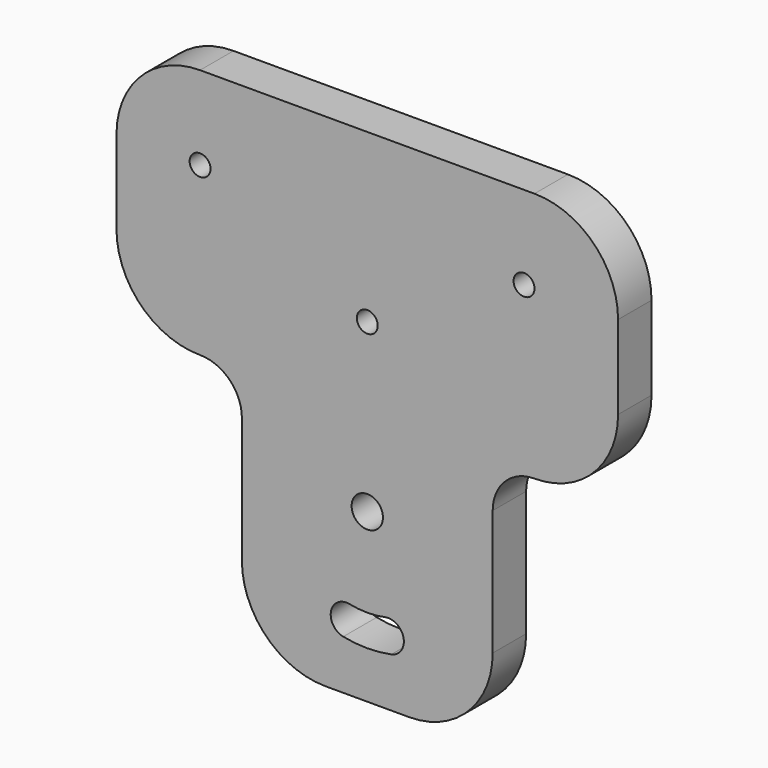
from build123d import *

# Parameters (mm, degrees)
F0_R     = 4.7625
F0_R_2   = 3.175
F1_DEPTH = 12.7


with BuildPart() as f1:
    # F0 (on Front) → F1 (new body)
    with BuildSketch(Plane.XZ):
        with BuildLine():
            Line((50.8, 0), (-50.8, 0))
            ThreePointArc((-50.8, 0), (-68.760512, -7.439488), (-76.2, -25.4))
            Line((-76.2, -25.4), (-76.2, -50.8))
            ThreePointArc((-76.2, -50.8), (-68.760512, -68.760512), (-50.8, -76.2))
            ThreePointArc((-50.8, -76.2), (-41.819744, -79.919744), (-38.1, -88.9))
            Line((-38.1, -88.9), (-38.1, -127))
            ThreePointArc((-38.1, -127), (-30.660512, -144.960512), (-12.7, -152.4))
            Line((-12.7, -152.4), (12.7, -152.4))
            ThreePointArc((12.7, -152.4), (30.660512, -144.960512), (38.1, -127))
            Line((38.1, -127), (38.1, -88.9))
            ThreePointArc((38.1, -88.9), (41.819744, -79.919744), (50.8, -76.2))
            ThreePointArc((50.8, -76.2), (68.760512, -68.760512), (76.2, -50.8))
            Line((76.2, -50.8), (76.2, -25.4))
            ThreePointArc((76.2, -25.4), (68.760512, -7.439488), (50.8, 0))
        make_face()
        with BuildLine():
            ThreePointArc((-7.3025, -137.374798), (-11.016278, -131.75602), (-5.3975, -128.042242))
            ThreePointArc((-5.3975, -128.042242), (0, -128.5875), (5.3975, -128.042242))
            ThreePointArc((5.3975, -128.042242), (11.016278, -131.75602), (7.3025, -137.374798))
            ThreePointArc((7.3025, -137.374798), (0, -138.1125), (-7.3025, -137.374798))
        make_face(mode=Mode.SUBTRACT)
        with Locations((0, -101.6)):
            Circle(F0_R, mode=Mode.SUBTRACT)
        with Locations((-50.8, -25.4)):
            Circle(F0_R_2, mode=Mode.SUBTRACT)
        with Locations((0, -50.8)):
            Circle(F0_R_2, mode=Mode.SUBTRACT)
        with Locations((47.625, -25.4)):
            Circle(F0_R_2, mode=Mode.SUBTRACT)
    extrude(amount=F1_DEPTH)


solid = f1.part
